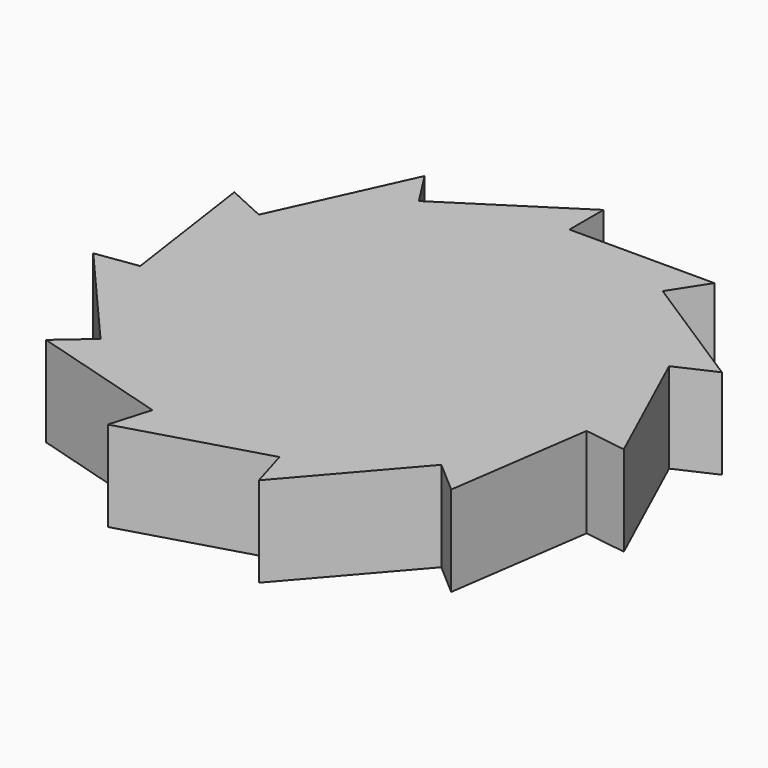
from build123d import *

# Parameters (mm, degrees)
F1_DEPTH = 10


with BuildPart() as f1:
    # F0 (on Top) → F1 (new body)
    with BuildSketch(Plane.XY):
        Polygon((22.7408, 10.385375), (27.032041, 12.345119), (13.51602, 21.031338), (16.066524, 25), (0, 25), (0, 29.717557), (-13.51602, 21.031338), (-16.066524, 25), (-22.7408, 10.385375), (-27.032041, 12.345119), (-24.745536, -3.557871), (-29.415075, -4.229249), (-18.893739, -16.371518), (-22.459031, -19.460861), (-7.043314, -23.987324), (-8.372403, -28.513787), (7.043314, -23.987324), (8.372403, -28.513787), (18.893739, -16.371518), (22.459031, -19.460861), (24.745536, -3.557871), (29.415075, -4.229249), align=None)
    extrude(amount=F1_DEPTH)


solid = f1.part
